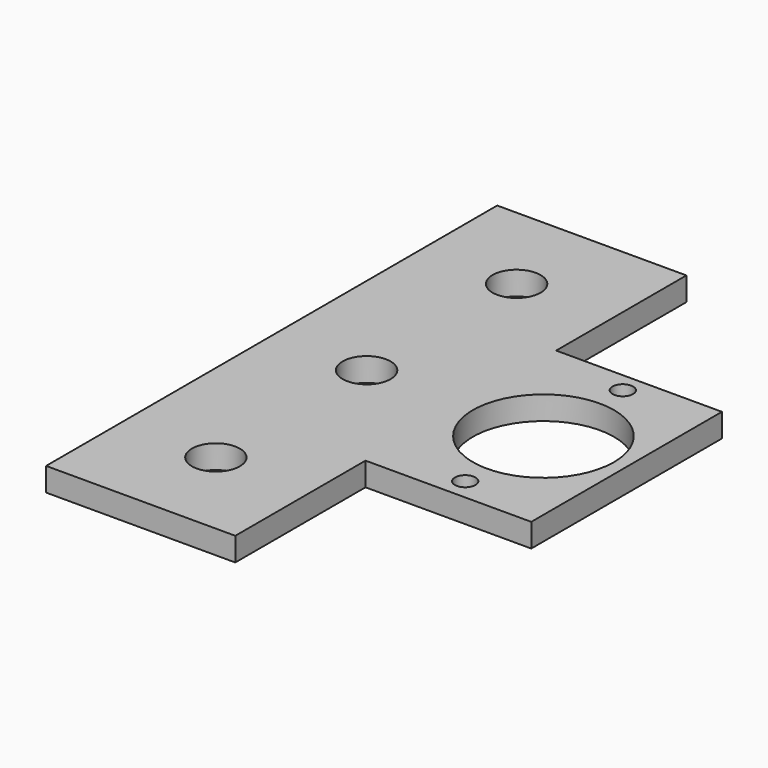
from build123d import *

# Parameters (mm, degrees)
SKETCH006_R   = 38.1
SKETCH006_R_2 = 5.550002
SKETCH006_R_3 = 12.954
PAD_DEPTH     = 12.7


with BuildPart() as part:
    # Sketch006 → Pad (new body)
    with BuildSketch(Plane(origin=(0, 0, -101.6), x_dir=(1, 0, 0), z_dir=(0, 0, -1))):
        Polygon((-226.640102, 116.351114), (-226.640102, -188.19224), (-124.453023, -188.19224), (-124.453023, -100.279126), (-34.935665, -100.279126), (-34.935665, 28.438), (-124.453023, 28.438), (-124.453023, 116.351114), align=None)
        with Locations((-79.856, -35.920563)):
            Circle(SKETCH006_R, mode=Mode.SUBTRACT)
        with Locations((-79.856, 16.888)):
            Circle(SKETCH006_R_2, mode=Mode.SUBTRACT)
        with Locations((-79.856, -89.512)):
            Circle(SKETCH006_R_2, mode=Mode.SUBTRACT)
        with Locations((-175.656, -36.312)):
            Circle(SKETCH006_R_3, mode=Mode.SUBTRACT)
        with Locations((-175.546563, 65.594294)):
            Circle(SKETCH006_R_3, mode=Mode.SUBTRACT)
        with Locations((-175.546563, -137.429578)):
            Circle(SKETCH006_R_3, mode=Mode.SUBTRACT)
    extrude(amount=PAD_DEPTH)


solid = part.part
